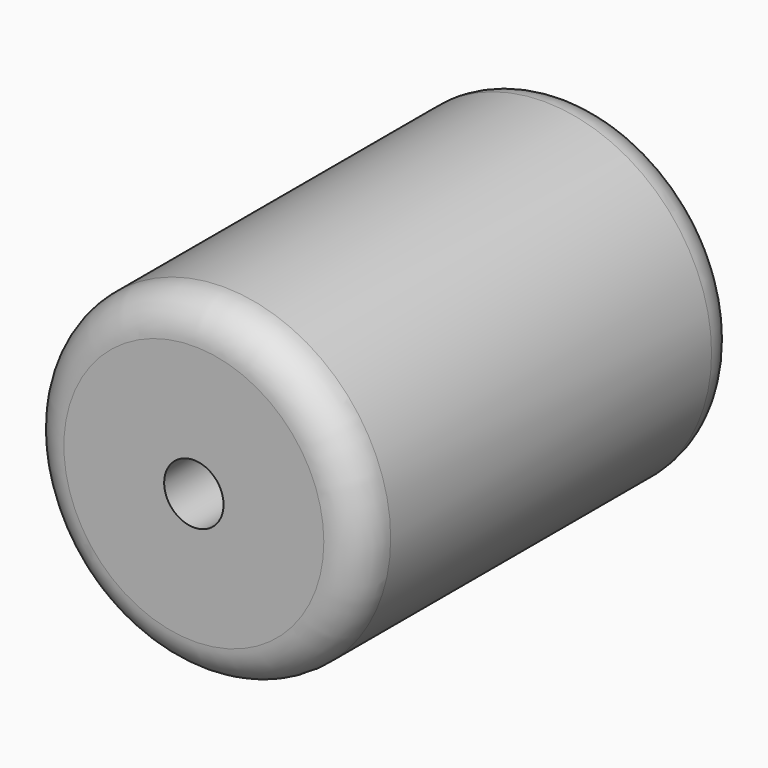
from build123d import *

# Parameters (mm, degrees)
F0_R     = 22.5
F1_DEPTH = 64
F2_R     = 4
F3_DEPTH = 64
F4_R     = 5


with BuildPart() as f1:
    # F0 (on Front) → F1 (new body)
    with BuildSketch(Plane.XZ):
        Circle(F0_R)
    extrude(amount=F1_DEPTH)

    # F2 (on face) → F3 (cut)
    with BuildSketch(Plane(origin=(0, 0, 0), x_dir=(-1, 0, 0), z_dir=(0, 1, 0))):
        Circle(F2_R)
    extrude(amount=-F3_DEPTH, mode=Mode.SUBTRACT)

    # F4
    f4_edges = [f1.edges().sort_by_distance(p)[0] for p in [
        (-22.5, -64, 0),
        (-22.5, 0, 0),
    ]]
    fillet(f4_edges, radius=F4_R)


solid = f1.part
